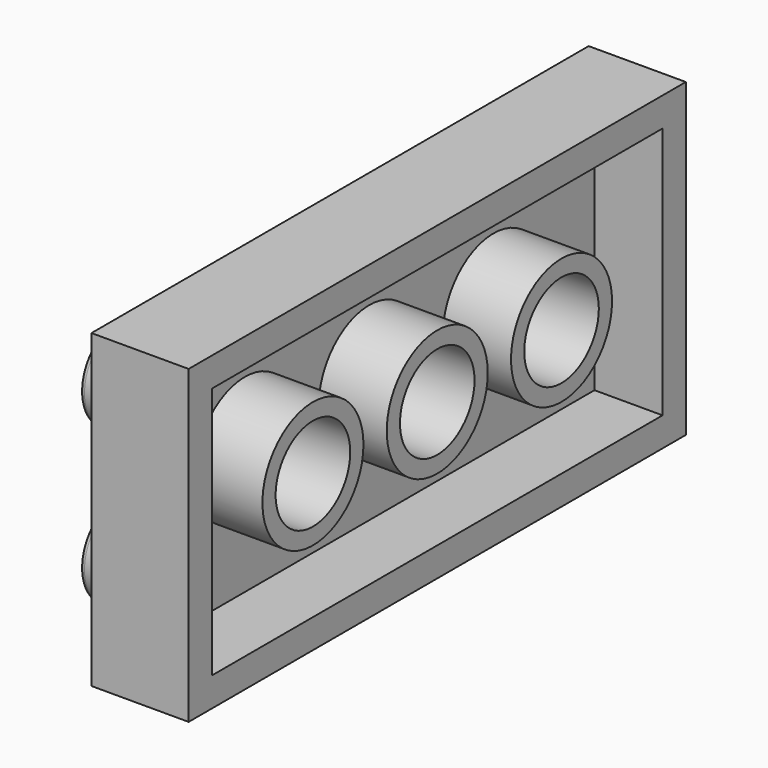
from build123d import *

# Parameters (mm, degrees)
F0_W     = 32.004
F0_H     = 16.002
F1_DEPTH = 5.0038
F2_R     = 2.3495
F3_DEPTH = 1.8542
F4_R     = 0.254
F5_W     = 29.0068
F5_H     = 13.0048
F5_R     = 3.2512
F5_R_2   = 2.4003
F6_DEPTH = 3.5052


with BuildPart() as f1:
    # F0 (on Right) → F1 (new body)
    with BuildSketch(Plane.YZ):
        with Locations((16.002, 8.001)):
            Rectangle(F0_W, F0_H)
    extrude(amount=F1_DEPTH)

    # F2 (on Right) → F3 (join)
    with BuildSketch(Plane.YZ):
        with Locations((3.8989, 12.1031)):
            Circle(F2_R)
        with Locations((11.8999, 12.1031)):
            Circle(F2_R)
        with Locations((19.9009, 12.1031)):
            Circle(F2_R)
        with Locations((27.9019, 12.1031)):
            Circle(F2_R)
        with Locations((27.9019, 4.1021)):
            Circle(F2_R)
        with Locations((19.9009, 4.1021)):
            Circle(F2_R)
        with Locations((11.8999, 4.1021)):
            Circle(F2_R)
        with Locations((3.8989, 4.1021)):
            Circle(F2_R)
    extrude(amount=-F3_DEPTH)

    # F4
    f4_edges = [f1.edges().sort_by_distance(p)[0] for p in [
        (-1.8542, 25.5524, 4.1021),
        (-1.8542, 25.5524, 12.1031),
        (-1.8542, 17.5514, 12.1031),
        (-1.8542, 17.5514, 4.1021),
        (-1.8542, 9.5504, 4.1021),
        (-1.8542, 9.5504, 12.1031),
        (-1.8542, 1.5494, 12.1031),
        (-1.8542, 1.5494, 4.1021),
    ]]
    fillet(f4_edges, radius=F4_R)

    # F5 (on face) → F6 (cut)
    with BuildSketch(Plane.YZ.offset(5.0038)):
        with Locations((16.002, 8.001)):
            Rectangle(F5_W, F5_H)
        with Locations((8.001, 8.001)):
            Circle(F5_R, mode=Mode.SUBTRACT)
        with Locations((16.002, 8.001)):
            Circle(F5_R, mode=Mode.SUBTRACT)
        with Locations((24.003, 8.001)):
            Circle(F5_R, mode=Mode.SUBTRACT)
        with Locations((24.003, 8.001)):
            Circle(F5_R_2)
        with Locations((16.002, 8.001)):
            Circle(F5_R_2)
        with Locations((8.001, 8.001)):
            Circle(F5_R_2)
    extrude(amount=-F6_DEPTH, mode=Mode.SUBTRACT)


solid = f1.part
